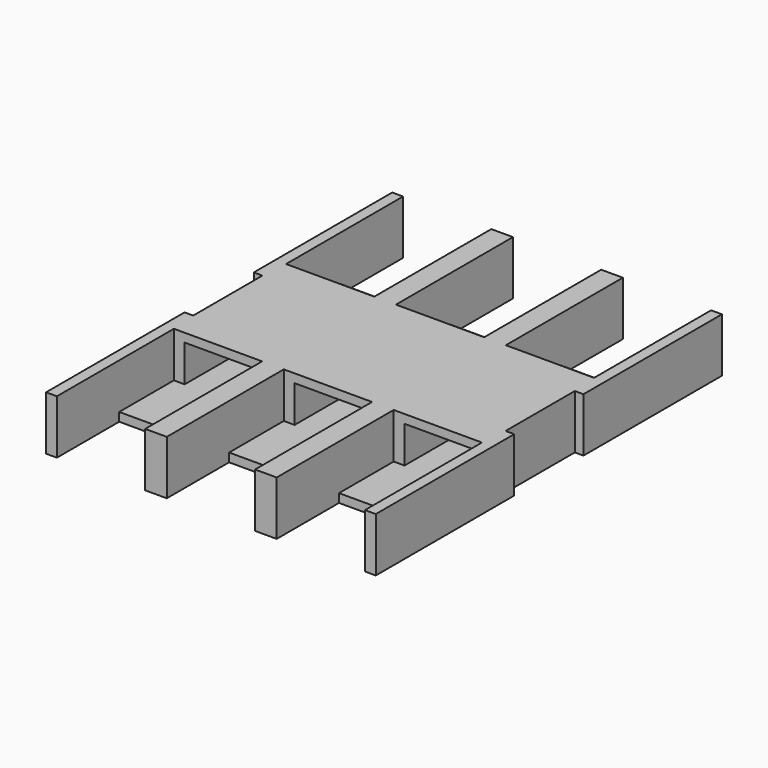
from build123d import *

# Parameters (mm, degrees)
SKETCH_W                           = 7.62
SKETCH_H                           = 10
PAD_DEPTH                          = 1.25
SKETCH001_W                        = 2.04
SKETCH001_H                        = 1.8
POCKET_DEPTH                       = 26.519708
SKETCH001_LINEARPATTERN_2_W        = 2.04
SKETCH001_LINEARPATTERN_2_H        = 1.8
POCKET_LINEARPATTERN_2_DEPTH       = 26.519708
SKETCH001_LINEARPATTERN_3_W        = 2.04
SKETCH001_LINEARPATTERN_3_H        = 1.8
POCKET_LINEARPATTERN_3_DEPTH       = 26.519708
SKETCH002_W                        = 2.04
SKETCH002_H                        = 3.38
POCKET001_DEPTH                    = 1.05
SKETCH002_LINEARPATTERN001_2_W     = 2.04
SKETCH002_LINEARPATTERN001_2_H     = 3.38
POCKET001_LINEARPATTERN001_2_DEPTH = 1.05
SKETCH002_LINEARPATTERN001_3_W     = 2.04
SKETCH002_LINEARPATTERN001_3_H     = 3.38
POCKET001_LINEARPATTERN001_3_DEPTH = 1.05
SKETCH003_W                        = 1.54
SKETCH003_H                        = 0.85
POCKET002_DEPTH                    = 4.9
SKETCH003_LINEARPATTERN002_2_W     = 1.54
SKETCH003_LINEARPATTERN002_2_H     = 0.85
POCKET002_LINEARPATTERN002_2_DEPTH = 4.9
SKETCH003_LINEARPATTERN002_3_W     = 1.54
SKETCH003_LINEARPATTERN002_3_H     = 0.85
POCKET002_LINEARPATTERN002_3_DEPTH = 4.9
SKETCH005_W                        = 0.2
SKETCH005_H                        = 2
POCKET003_DEPTH                    = 26.519708


with BuildPart() as part:
    # Sketch → Pad (new body)
    with BuildSketch(Plane.XY):
        Rectangle(SKETCH_W, SKETCH_H)
    extrude(amount=PAD_DEPTH)

    # Sketch001 → Pocket (cut, through all)
    with BuildSketch(Plane.XY):
        with Locations((-2.54, -4.1)):
            Rectangle(SKETCH001_W, SKETCH001_H)
    pocket = extrude(amount=POCKET_DEPTH, mode=Mode.SUBTRACT)

    # Sketch001 LinearPattern 2 → Pocket LinearPattern 2 (cut, through all)
    with BuildSketch(Plane(origin=(2.54, 0, 0), x_dir=(1, 0, 0), z_dir=(0, 0, 1))):
        with Locations((-2.54, -4.1)):
            Rectangle(SKETCH001_LINEARPATTERN_2_W, SKETCH001_LINEARPATTERN_2_H)
    pocket_linearpattern_2 = extrude(amount=POCKET_LINEARPATTERN_2_DEPTH, mode=Mode.SUBTRACT)

    # Sketch001 LinearPattern 3 → Pocket LinearPattern 3 (cut, through all)
    with BuildSketch(Plane(origin=(5.08, 0, 0), x_dir=(1, 0, 0), z_dir=(0, 0, 1))):
        with Locations((-2.54, -4.1)):
            Rectangle(SKETCH001_LINEARPATTERN_3_W, SKETCH001_LINEARPATTERN_3_H)
    pocket_linearpattern_3 = extrude(amount=POCKET_LINEARPATTERN_3_DEPTH, mode=Mode.SUBTRACT)

    # Mirrored: Pocket, Pocket LinearPattern 2, Pocket LinearPattern 3 across Sketch001 H_Axis
    add(pocket.mirror(Plane.ZX), mode=Mode.SUBTRACT)
    add(pocket_linearpattern_2.mirror(Plane.ZX), mode=Mode.SUBTRACT)
    add(pocket_linearpattern_3.mirror(Plane.ZX), mode=Mode.SUBTRACT)

    # Sketch002 → Pocket001 (cut)
    with BuildSketch(Plane.XY.offset(1.25)):
        with Locations((-2.54, -3.31)):
            Rectangle(SKETCH002_W, SKETCH002_H)
    pocket001 = extrude(amount=-POCKET001_DEPTH, mode=Mode.SUBTRACT)

    # Sketch002 LinearPattern001 2 → Pocket001 LinearPattern001 2 (cut)
    with BuildSketch(Plane(origin=(2.54, 0, 1.25), x_dir=(1, 0, 0), z_dir=(0, 0, 1))):
        with Locations((-2.54, -3.31)):
            Rectangle(SKETCH002_LINEARPATTERN001_2_W, SKETCH002_LINEARPATTERN001_2_H)
    pocket001_linearpattern001_2 = extrude(amount=-POCKET001_LINEARPATTERN001_2_DEPTH, mode=Mode.SUBTRACT)

    # Sketch002 LinearPattern001 3 → Pocket001 LinearPattern001 3 (cut)
    with BuildSketch(Plane(origin=(5.08, 0, 1.25), x_dir=(1, 0, 0), z_dir=(0, 0, 1))):
        with Locations((-2.54, -3.31)):
            Rectangle(SKETCH002_LINEARPATTERN001_3_W, SKETCH002_LINEARPATTERN001_3_H)
    pocket001_linearpattern001_3 = extrude(amount=-POCKET001_LINEARPATTERN001_3_DEPTH, mode=Mode.SUBTRACT)

    # Mirrored001: Pocket001, Pocket001 LinearPattern001 2, Pocket001 LinearPattern001 3 across Sketch002 H_Axis
    add(pocket001.mirror(Plane(origin=(0, 0, 1.25), x_dir=(0, 0, 1), z_dir=(0, 1, 0))), mode=Mode.SUBTRACT)
    add(pocket001_linearpattern001_2.mirror(Plane(origin=(0, 0, 1.25), x_dir=(0, 0, 1), z_dir=(0, 1, 0))), mode=Mode.SUBTRACT)
    add(pocket001_linearpattern001_3.mirror(Plane(origin=(0, 0, 1.25), x_dir=(0, 0, 1), z_dir=(0, 1, 0))), mode=Mode.SUBTRACT)

    # Sketch003 → Pocket002 (cut)
    with BuildSketch(Plane.XZ.offset(5)):
        with Locations((-2.54, 0.625)):
            Rectangle(SKETCH003_W, SKETCH003_H)
    pocket002 = extrude(amount=-POCKET002_DEPTH, mode=Mode.SUBTRACT)

    # Sketch003 LinearPattern002 2 → Pocket002 LinearPattern002 2 (cut)
    with BuildSketch(Plane(origin=(2.54, -5, 0), x_dir=(1, 0, 0), z_dir=(0, -1, 0))):
        with Locations((-2.54, 0.625)):
            Rectangle(SKETCH003_LINEARPATTERN002_2_W, SKETCH003_LINEARPATTERN002_2_H)
    pocket002_linearpattern002_2 = extrude(amount=-POCKET002_LINEARPATTERN002_2_DEPTH, mode=Mode.SUBTRACT)

    # Sketch003 LinearPattern002 3 → Pocket002 LinearPattern002 3 (cut)
    with BuildSketch(Plane(origin=(5.08, -5, 0), x_dir=(1, 0, 0), z_dir=(0, -1, 0))):
        with Locations((-2.54, 0.625)):
            Rectangle(SKETCH003_LINEARPATTERN002_3_W, SKETCH003_LINEARPATTERN002_3_H)
    pocket002_linearpattern002_3 = extrude(amount=-POCKET002_LINEARPATTERN002_3_DEPTH, mode=Mode.SUBTRACT)

    # Mirrored002: Pocket002, Pocket002 LinearPattern002 2, Pocket002 LinearPattern002 3 across XZ
    add(pocket002.mirror(Plane.XZ), mode=Mode.SUBTRACT)
    add(pocket002_linearpattern002_2.mirror(Plane.XZ), mode=Mode.SUBTRACT)
    add(pocket002_linearpattern002_3.mirror(Plane.XZ), mode=Mode.SUBTRACT)

    # Sketch005 → Pocket003 (cut, through all)
    with BuildSketch(Plane.XY):
        with Locations((-3.71, 0)):
            Rectangle(SKETCH005_W, SKETCH005_H)
    pocket003 = extrude(amount=POCKET003_DEPTH, mode=Mode.SUBTRACT)

    # Mirrored003: Pocket003 across Sketch005 V_Axis
    add(pocket003.mirror(Plane(origin=(0, 0, 0), x_dir=(0, 0, 1), z_dir=(1, 0, 0))), mode=Mode.SUBTRACT)


with BuildPart() as part_1:
    # Body placement: moved
    add(part.part.moved(Location((0, 0, 0.05))))


solid = part_1.part
